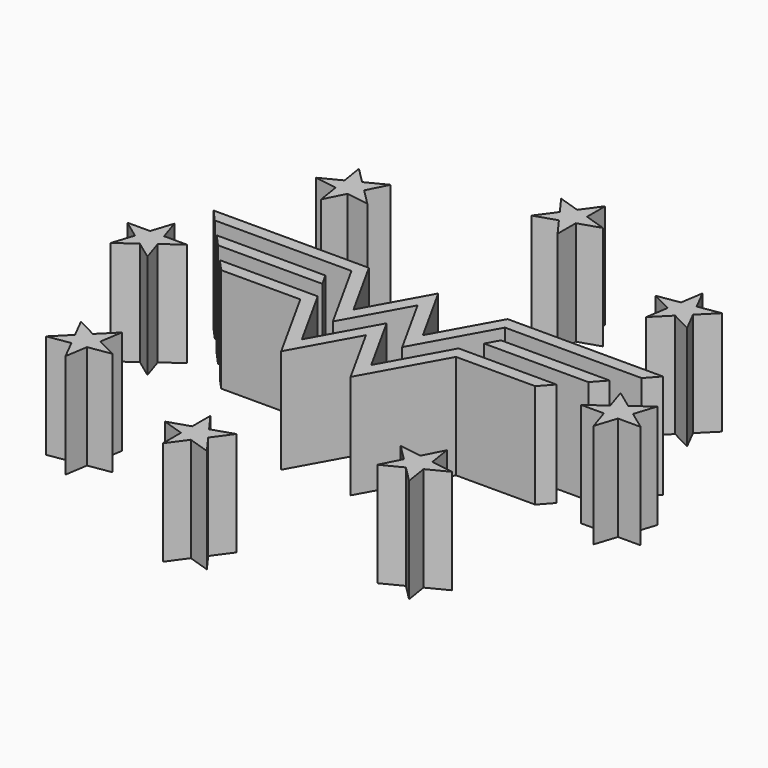
from build123d import *

# Parameters (mm, degrees)
F3_DEPTH = 5
F5_DEPTH = 5
F6_COUNT = 8


with BuildPart() as f3:
    # F2 (on Top) → F3 (new body, symmetric)
    with BuildSketch(Plane.XY):
        Polygon((-6.6517086174, 6.5), (-21.5406592285, 6.5), (-20.4601743754, 5.3), (-7.3585626371, 5.3), (-3.3258543087, -1.9751984076), (0, 4.0248015924), (0, 6.5), (-3.3258543087, 0.5), align=None)
    extrude(amount=F3_DEPTH, both=True)



with BuildPart() as f3b:
    # F2 (on Top) → F3, piece 2 (new body, symmetric)
    with BuildSketch(Plane.XY):
        Polygon((-8.4188436667, 3.5), (-18.8394470956, 3.5), (-17.7589622425, 2.3), (-7.753672805, 2.3), align=None)
    extrude(amount=F3_DEPTH, both=True)


with BuildPart() as f3c:
    # F2 (on Top) → F3, piece 3 (new body, symmetric)
    with BuildSketch(Plane.XY):
        Polygon((-6.7559165123, 0.5), (-16.1382349628, 0.5), (-15.0577501096, -0.7), (-7.462770532, -0.7), (-3.3258543087, -8.1631944264), (0, -2.1631944264), (0, 0.3120039811), (-3.3258543087, -5.6879960189), align=None)
    extrude(amount=F3_DEPTH, both=True)


with BuildPart() as f3_1:
    add(f3.part)

    add(f3c.part)  # F4 merges F3c
    # F4: F3, F3b, F3c across plane
    add(f3.part.mirror(Plane.YZ))
    add(f3b.part.mirror(Plane.YZ))
    add(f3c.part.mirror(Plane.YZ))


with BuildPart() as f5:
    # F1 (on Top) → F5 (new body, symmetric)
    with BuildSketch(Plane.XY):
        Polygon((-23.589813792, -0.3541019662), (-22.5, -1.1458980338), (-21.410186208, -0.3541019662), (-21.8264580351, 0.9270509831), (-23.1735419649, 0.9270509831), align=None)
        Polygon((-23.1735419649, 0.9270509831), (-21.8264580351, 0.9270509831), (-22.5, 3), align=None)
        Polygon((-25.3531695489, 0.9270509831), (-23.589813792, -0.3541019662), (-23.1735419649, 0.9270509831), align=None)
        Polygon((-24.2633557569, -2.4270509831), (-22.5, -1.1458980338), (-23.589813792, -0.3541019662), align=None)
        Polygon((-22.5, -1.1458980338), (-20.7366442431, -2.4270509831), (-21.410186208, -0.3541019662), align=None)
        Polygon((-21.8264580351, 0.9270509831), (-21.410186208, -0.3541019662), (-19.6468304511, 0.9270509831), align=None)
    extrude(amount=F5_DEPTH, both=True)


with BuildPart() as f6_1:
    # F6: instance of F5
    add(f5.part.rotate(Axis((0, 0, 0), (0, 0, -1)), 1 * 360 / F6_COUNT))


with BuildPart() as f6_2:
    # F6: instance of F5
    add(f5.part.rotate(Axis((0, 0, 0), (0, 0, -1)), 2 * 360 / F6_COUNT))


with BuildPart() as f6_3:
    # F6: instance of F5
    add(f5.part.rotate(Axis((0, 0, 0), (0, 0, -1)), 3 * 360 / F6_COUNT))


with BuildPart() as f6_4:
    # F6: instance of F5
    add(f5.part.rotate(Axis((0, 0, 0), (0, 0, -1)), 4 * 360 / F6_COUNT))


with BuildPart() as f6_5:
    # F6: instance of F5
    add(f5.part.rotate(Axis((0, 0, 0), (0, 0, -1)), 5 * 360 / F6_COUNT))


with BuildPart() as f6_6:
    # F6: instance of F5
    add(f5.part.rotate(Axis((0, 0, 0), (0, 0, -1)), 6 * 360 / F6_COUNT))


with BuildPart() as f6_7:
    # F6: instance of F5
    add(f5.part.rotate(Axis((0, 0, 0), (0, 0, -1)), 7 * 360 / F6_COUNT))


solid = Compound([f3b.part, f3_1.part, f5.part, f6_1.part, f6_2.part, f6_3.part, f6_4.part, f6_5.part, f6_6.part, f6_7.part])
